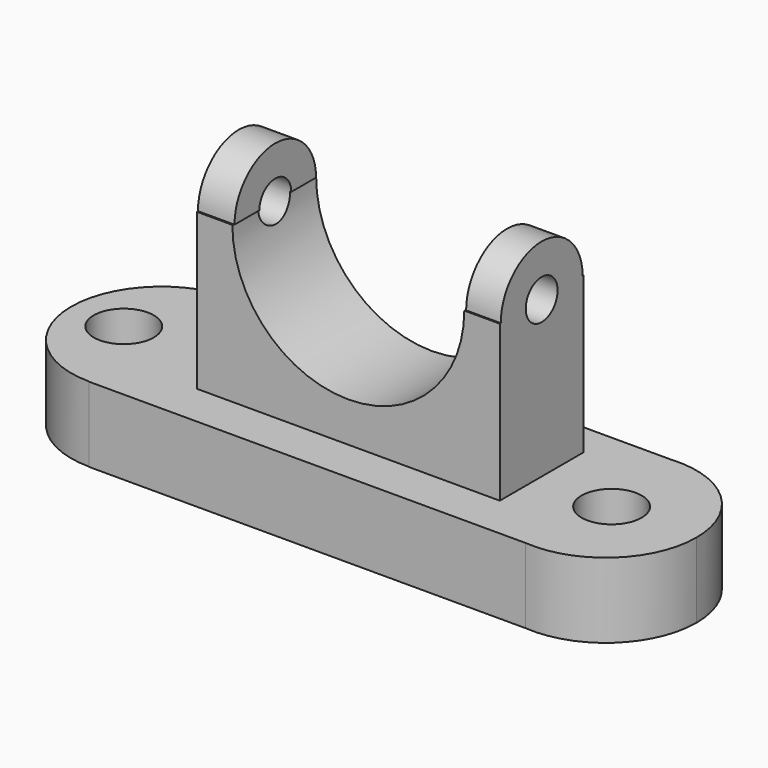
from build123d import *

# Parameters (mm, degrees)
F1_DEPTH  = 19.812
F2_R      = 7.9410723376
F3_DEPTH  = 53.594
F4_DEPTH  = 72.136
F5_W      = 80.0100006163
F5_H      = 27.649730444
F6_DEPTH  = 41.148
F8_DEPTH  = 64.516
F10_DEPTH = 9.652
F12_DEPTH = 9.144
F13_R     = 5.2636855274
F14_DEPTH = 114.046


with BuildPart() as f1:
    # F0 (on Top) → F1 (new body)
    with BuildSketch(Plane.XY):
        with BuildLine():
            Line((62.7238675952, 24.0631569177), (60.7514679523, 24.0631569177))
            ThreePointArc((60.7514679523, 24.0631569177), (38.7298974086, 0.1503936946), (60.7514679523, -23.7623695284))
            Line((60.7514679523, -23.7623695284), (62.7238675952, -23.7623695284))
            Line((62.7238675952, -23.7623695284), (62.7238675952, 24.0631569177))
        make_face()
        with BuildLine():
            Line((60.7514679523, 24.0631569177), (-54.584030062, 24.0631569177))
            Line((-54.584030062, 24.0631569177), (-54.584030062, 23.9759786156))
            ThreePointArc((-54.584030062, 23.9759786156), (-37.7367973986, 16.997626358), (-30.758445141, 0.1503936946))
            ThreePointArc((-30.758445141, 0.1503936946), (-37.7367973986, -16.6968389687), (-54.584030062, -23.6751912263))
            Line((-54.584030062, -23.6751912263), (-54.584030062, -23.7623695284))
            Line((-54.584030062, -23.7623695284), (60.7514679523, -23.7623695284))
            ThreePointArc((60.7514679523, -23.7623695284), (38.7298974086, 0.1503936946), (60.7514679523, 24.0631569177))
        make_face()
        with BuildLine():
            Line((-54.584030062, -23.6751912263), (-54.584030062, 23.9759786156))
            ThreePointArc((-54.584030062, 23.9759786156), (-78.4096149829, 0.1503936946), (-54.584030062, -23.6751912263))
        make_face()
        with BuildLine():
            ThreePointArc((86.7178377817, 0.1503936946), (78.9778656739, 17.8002705149), (60.7514679523, 24.0631569177))
            Line((60.7514679523, 24.0631569177), (62.7238675952, 24.0631569177))
            Line((62.7238675952, 24.0631569177), (62.7238675952, -23.7623695284))
            Line((62.7238675952, -23.7623695284), (60.7514679523, -23.7623695284))
            ThreePointArc((60.7514679523, -23.7623695284), (78.9778656739, -17.4994831256), (86.7178377817, 0.1503936946))
        make_face()
        with BuildLine():
            ThreePointArc((-30.758445141, 0.1503936946), (-37.7367973986, 16.997626358), (-54.584030062, 23.9759786156))
            Line((-54.584030062, 23.9759786156), (-54.584030062, -23.6751912263))
            ThreePointArc((-54.584030062, -23.6751912263), (-37.7367973986, -16.6968389687), (-30.758445141, 0.1503936946))
        make_face()
    extrude(amount=-F1_DEPTH)

    # F2 (on face) → F3 (cut)
    with BuildSketch(Plane.XY):
        with Locations((-64.4258856773, 0)):
            Circle(F2_R)
    extrude(amount=-F3_DEPTH, mode=Mode.SUBTRACT)

    # F2 (on face) → F4 (cut)
    with BuildSketch(Plane.XY):
        with Locations((-64.4258856773, 0)):
            Circle(F2_R)
        with Locations((64.4258856773, 0)):
            Circle(F2_R)
    extrude(amount=-F4_DEPTH, mode=Mode.SUBTRACT)

    # F5 (on face) → F6 (join)
    with BuildSketch(Plane.XY):
        with Locations((4.7556925565, 1.4888346195)):
            Rectangle(F5_W, F5_H)
    extrude(amount=F6_DEPTH)

    # F7 (on face) → F8 (cut)
    with BuildSketch(Plane.XZ.offset(12.3360306025)):
        with BuildLine():
            Line((-25.8717667552, 41.148), (35.3831518682, 41.148))
            ThreePointArc((35.3831518682, 41.148), (4.7556925565, 71.7754593117), (-25.8717667552, 41.148))
        make_face()
        with BuildLine():
            ThreePointArc((-25.8717667552, 41.148), (4.7556925565, 10.5205406883), (35.3831518682, 41.148))
            Line((35.3831518682, 41.148), (-25.8717667552, 41.148))
        make_face()
    extrude(amount=-F8_DEPTH, mode=Mode.SUBTRACT)

    # F9 (on face) → F10 (join)
    with BuildSketch(Plane(origin=(-35.2493077517, 0, 0), x_dir=(0, -1, 0), z_dir=(-1, 0, 0))):
        with BuildLine():
            Line((-14.9469008146, 41.148), (11.9692315755, 41.148))
            ThreePointArc((11.9692315755, 41.148), (-1.4888346195, 54.606066195), (-14.9469008146, 41.148))
        make_face()
    extrude(amount=-F10_DEPTH)

    # F11 (on face) → F12 (join)
    with BuildSketch(Plane.YZ.offset(44.7606928647)):
        with BuildLine():
            Line((-12.0193907988, 41.148), (14.9970600378, 41.148))
            ThreePointArc((14.9970600378, 41.148), (1.4888346195, 54.6562254183), (-12.0193907988, 41.148))
        make_face()
    extrude(amount=-F12_DEPTH)

    # F13 (on face) → F14 (cut)
    with BuildSketch(Plane.YZ.offset(44.7606928647)):
        with Locations((1.4888346195, 41.148)):
            Circle(F13_R)
    extrude(amount=-F14_DEPTH, mode=Mode.SUBTRACT)


solid = f1.part
